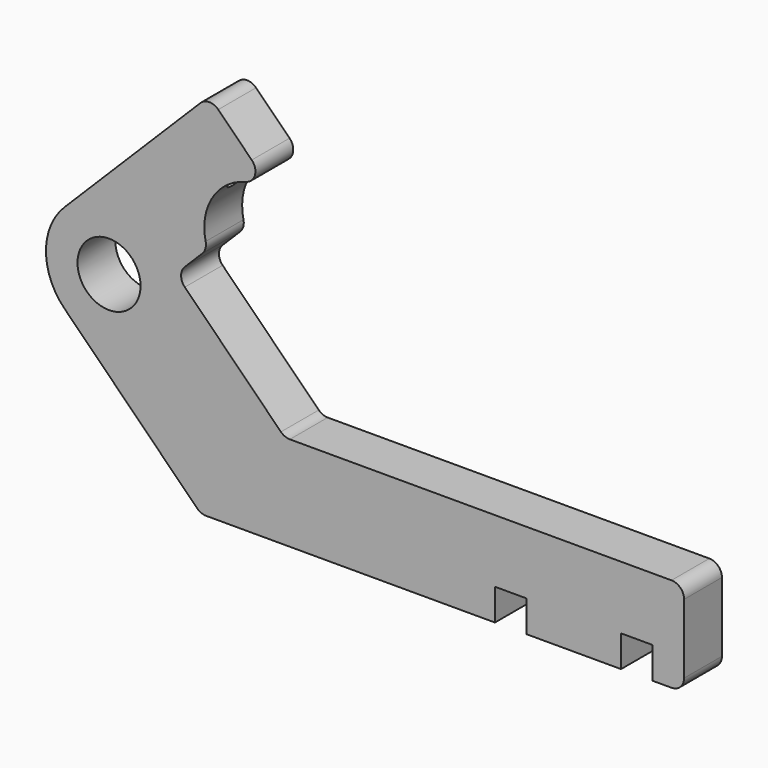
from build123d import *

# Parameters (mm, degrees)
F0_R     = 6.35
F1_DEPTH = 9.525
F2_R     = 2.38125
F3_DEPTH = 25.4
F4_R     = 2.54
F5_R     = 2.54


with BuildPart() as f1:
    # F0 (on Front) → F1 (new body)
    with BuildSketch(Plane.XZ):
        with BuildLine():
            ThreePointArc((20.258996, 9.87189), (22.492237, 21.066453), (33.413953, 24.386349))
            Line((33.413953, 24.386349), (20.62332, 37.176983))
            Line((20.62332, 37.176983), (-8.562513, 7.99115))
            ThreePointArc((-8.562513, 7.99115), (-12.282257, -0.989106), (-8.562513, -9.969362))
            Line((-8.562513, -9.969362), (18.922999, -37.454874))
            Line((18.922999, -37.454874), (78.158512, -37.454874))
            Line((78.158512, -37.454874), (78.158512, -31.104874))
            Line((78.158512, -31.104874), (84.508512, -31.104874))
            Line((84.508512, -31.104874), (84.508512, -37.454874))
            Line((84.508512, -37.454874), (103.558512, -37.454874))
            Line((103.558512, -37.454874), (103.558512, -31.104874))
            Line((103.558512, -31.104874), (109.908512, -31.104874))
            Line((109.908512, -31.104874), (109.908512, -37.454874))
            Line((109.908512, -37.454874), (116.258512, -37.454874))
            Line((116.258512, -37.454874), (116.258512, -18.404874))
            Line((116.258512, -18.404874), (35.794024, -18.404874))
            Line((35.794024, -18.404874), (13.888128, 3.501022))
            Line((13.888128, 3.501022), (20.258996, 9.87189))
        make_face()
        with Locations((0.417743, -0.989106)):
            Circle(F0_R, mode=Mode.SUBTRACT)
    extrude(amount=-F1_DEPTH)

    # F2 (on face) → F3 (cut)
    with BuildSketch(Plane(origin=(-8.276832, 0, 8.276832), x_dir=(0, -1, 0), z_dir=(-0.707107, 0, 0.707107))):
        with Locations((-4.7625, 31.345986)):
            Circle(F2_R)
    extrude(amount=-F3_DEPTH, mode=Mode.SUBTRACT)

    # F4
    f4_edges = [f1.edges().sort_by_distance(p)[0] for p in [
        (33.413953, 4.7625, 24.386349),
        (20.258996, 4.7625, 9.87189),
    ]]
    fillet(f4_edges, radius=F4_R)

    # F5
    f5_edges = [f1.edges().sort_by_distance(p)[0] for p in [
        (13.888128, 4.7625, 3.501022),
        (35.794024, 4.7625, -18.404874),
        (18.922999, 4.7625, -37.454874),
        (116.258512, 4.7625, -18.404874),
        (116.258512, 4.7625, -37.454874),
        (20.62332, 4.7625, 37.176983),
    ]]
    fillet(f5_edges, radius=F5_R)


solid = f1.part
